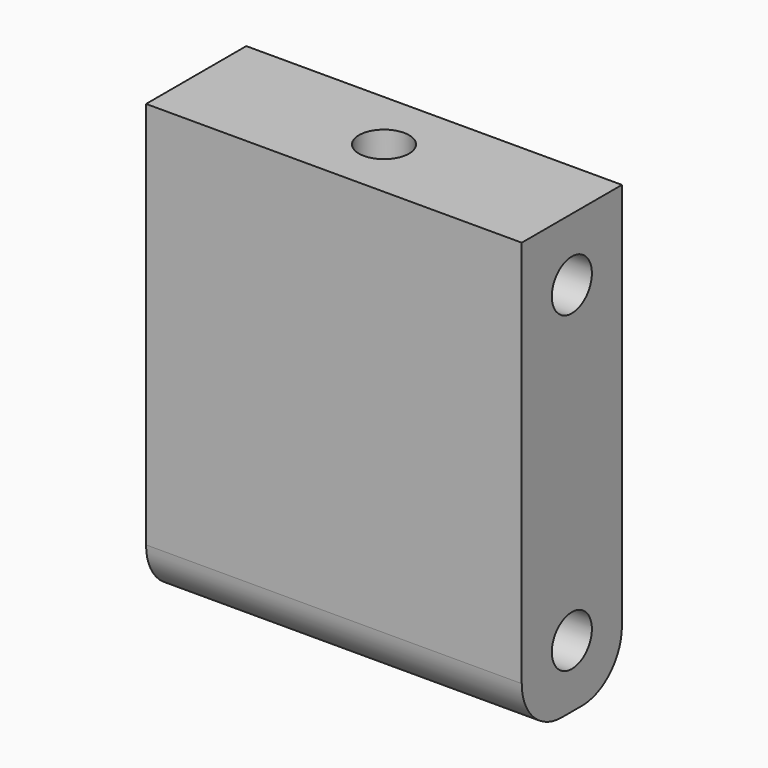
from build123d import *

# Parameters (mm, degrees)
F0_W     = 38.1
F0_H     = 44.45
F1_DEPTH = 12.7
F2_R     = 5.08
F3_R     = 2.54
F4_DEPTH = 38.1
F5_R     = 2.54
F6_DEPTH = 6.35


with BuildPart() as f1:
    # F0 (on Front) → F1 (new body)
    with BuildSketch(Plane.XZ):
        with Locations((-19.05, 5.328478)):
            Rectangle(F0_W, F0_H)
    extrude(amount=F1_DEPTH)

    # F2
    f2_edges = [f1.edges().sort_by_distance(p)[0] for p in [
        (-19.05, 0, -16.896522),
        (-19.05, -12.7, -16.896522),
    ]]
    fillet(f2_edges, radius=F2_R)

    # F3 (on face) → F4 (cut)
    with BuildSketch(Plane.YZ):
        with Locations((-6.35, -10.546522)):
            Circle(F3_R)
        with Locations((-6.35, 21.203478)):
            Circle(F3_R)
    extrude(amount=-F4_DEPTH, mode=Mode.SUBTRACT)

    # F5 (on face) → F6 (cut)
    with BuildSketch(Plane.XY.offset(27.553478)):
        with Locations((-19.05, -6.35)):
            Circle(F5_R)
    extrude(amount=-F6_DEPTH, mode=Mode.SUBTRACT)


solid = f1.part
